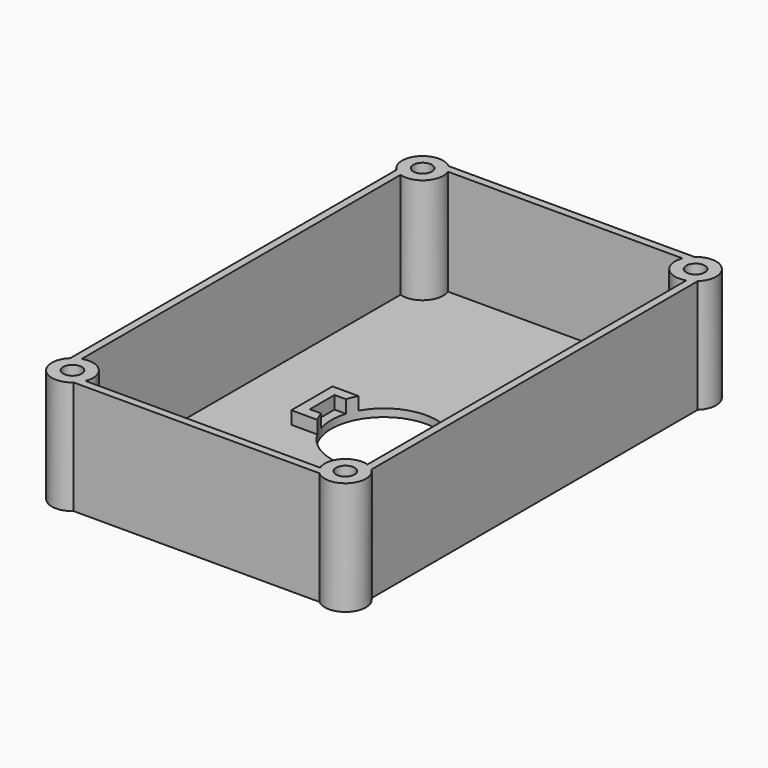
from build123d import *

# Parameters (mm, degrees)
F0_W      = 58.5
F0_H      = 91
F1_DEPTH  = 22
F2_T      = -1.5
F3_R      = 3
F4_R      = 2
F5_R      = 4
F6_DEPTH  = 22
F7_R      = 1.8
F8_DEPTH  = 20
F11_W     = 28
F11_H     = 10
F11_W_2   = 24
F11_H_2   = 6
F12_DEPTH = 4
F10_R     = 10.25
F13_DEPTH = 25


with BuildPart() as f1:
    # F0 (on Top) → F1 (new body)
    with BuildSketch(Plane.XY):
        Rectangle(F0_W, F0_H)
    extrude(amount=-F1_DEPTH)

    # F2
    f2_openings = [f1.faces().sort_by_distance(p)[0] for p in [
        (0, 0, 0),
    ]]
    offset(amount=F2_T, openings=f2_openings)

    # F3
    f3_edges = [f1.edges().sort_by_distance(p)[0] for p in [
        (-29.25, 45.5, -11),
        (29.25, 45.5, -11),
        (-29.25, -45.5, -11),
        (29.25, -45.5, -11),
    ]]
    fillet(f3_edges, radius=F3_R)

    # F4
    f4_edges = [f1.edges().sort_by_distance(p)[0] for p in [
        (-27.75, 44, -10.25),
        (-27.75, -44, -10.25),
        (27.75, -44, -10.25),
        (27.75, 44, -10.25),
    ]]
    fillet(f4_edges, radius=F4_R)

    # F5 (on face) → F6 (join)
    with BuildSketch(Plane.XY):
        with Locations((26.5, -42.5)):
            Circle(F5_R)
        with Locations((26.5, 42.5)):
            Circle(F5_R)
        with Locations((-26.5, 42.5)):
            Circle(F5_R)
        with Locations((-26.5, -42.5)):
            Circle(F5_R)
    extrude(amount=-F6_DEPTH)

    # F7 (on Top) → F8 (cut)
    with BuildSketch(Plane.XY):
        with Locations((26.5, -42.5)):
            Circle(F7_R)
        with Locations((26.5, 42.5)):
            Circle(F7_R)
        with Locations((-26.5, -42.5)):
            Circle(F7_R)
        with Locations((-26.5, 42.5)):
            Circle(F7_R)
    extrude(amount=-F8_DEPTH, mode=Mode.SUBTRACT)

    # F11 (on face) → F12 (join)
    with BuildSketch(Plane(origin=(0, 0, -22), x_dir=(1, 0, 0), z_dir=(0, 0, -1))):
        Rectangle(F11_W, F11_H)
        Rectangle(F11_W_2, F11_H_2, mode=Mode.SUBTRACT)
    extrude(amount=-F12_DEPTH)

    # F10 (on face) → F13 (cut)
    with BuildSketch(Plane(origin=(0, 0, -22), x_dir=(1, 0, 0), z_dir=(0, 0, -1))):
        Circle(F10_R)
    extrude(amount=-F13_DEPTH, mode=Mode.SUBTRACT)


solid = f1.part
